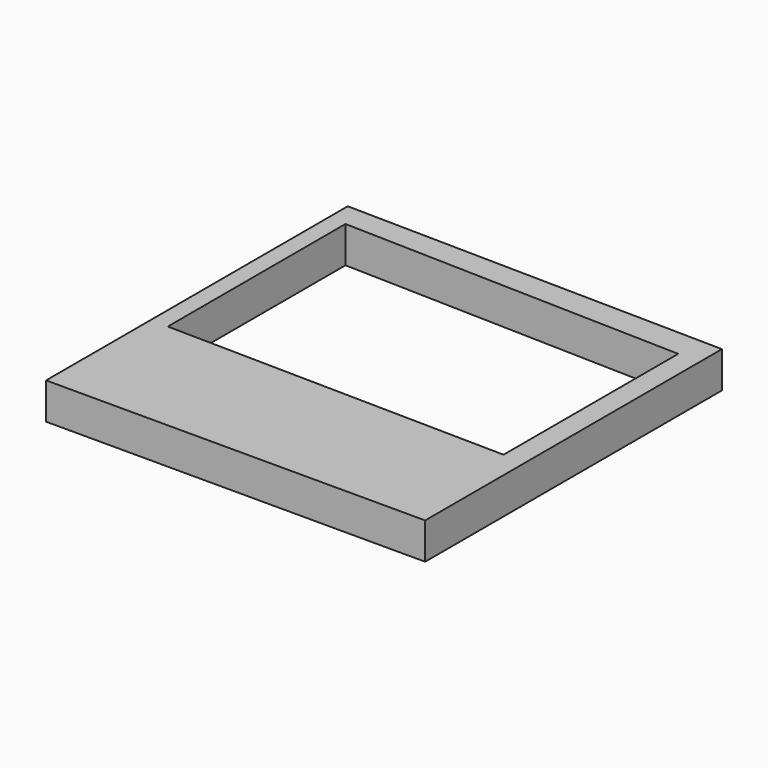
from build123d import *

# Parameters (mm, degrees)
F1_DEPTH  = 9.398
F1_FACE_W = 97.914338
F1_FACE_H = 9.398
F2_DEPTH  = 25.4


with BuildPart() as f1:
    # F0 (on Top) → F1 (new body)
    with BuildSketch(Plane.XY):
        Polygon((40.420551, 41.290432), (-57.493787, 42.872965), (-57.493787, -29.132366), (40.420551, -29.132366), (40.420551, 27.838886), align=None)
        Polygon((-53.017702, -20.82406), (-53.017702, 36.542833), (34.834471, 34.169026), (34.834471, -22.243964), align=None, mode=Mode.SUBTRACT)
    extrude(amount=-F1_DEPTH)

    # F1_face (on face) → F2 (join)
    with BuildSketch(Plane(origin=(-8.536618, -29.132366, -4.699), x_dir=(1, 0, 0), z_dir=(0, -1, 0))):
        Rectangle(F1_FACE_W, F1_FACE_H)
    extrude(amount=F2_DEPTH)


solid = f1.part
